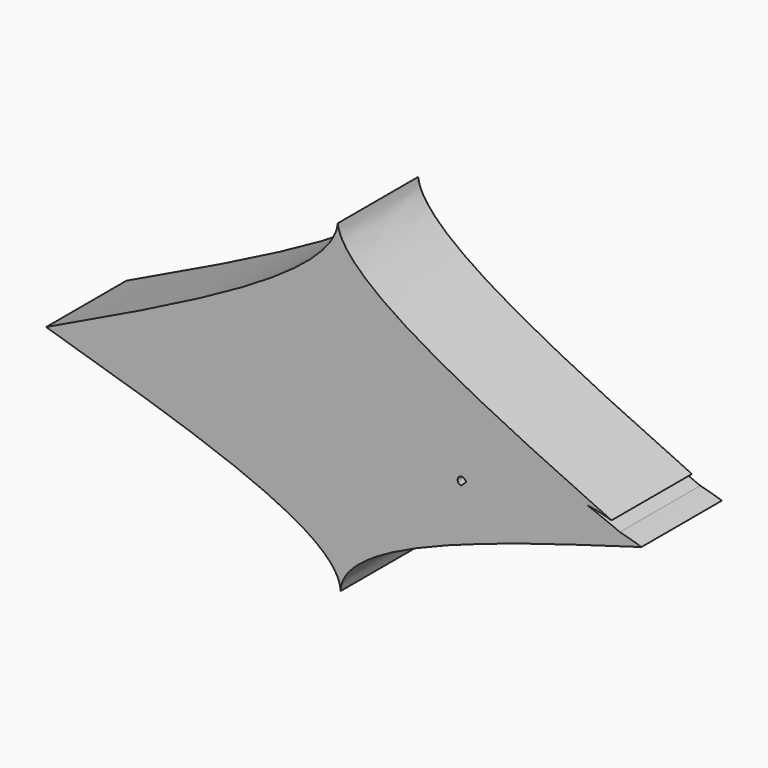
from build123d import *

# Parameters (mm, degrees)
F1_DEPTH = 25.4


with BuildPart() as f1:
    # F0 (on Front) → F1 (new body)
    with BuildSketch(Plane.XZ):
        with BuildLine():
            ThreePointArc((47.1242318861, -8.6663383223), (-0.8292120713, -13.7429262963), (-48.6883256295, -7.84294475))
            add(Edge.make_bspline(
                [(-5e-10, -34.5518551604), (-0.3103211855, -25.0342064399), (-21.9779874723, -16.341220269), (-48.6883256326, -7.8429447489)],
                knots=[0.5059463774, 0.5059463774, 0.5059463774, 0.5059463774, 0.8833492511, 0.8833492511, 0.8833492511, 0.8833492511], degree=3))
            add(Edge.make_bspline(
                [(6e-10, -34.5518551604), (0.3163893742, -25.3301562157), (21.0555086924, -16.8955462049), (47.1242318898, -8.6663383209)],
                knots=[0.5042568802, 0.5042568802, 0.5042568802, 0.5042568802, 0.870628733, 0.870628733, 0.870628733, 0.870628733], degree=3))
        make_face()
        with BuildLine():
            add(Edge.make_bspline(
                [(-72.7932450034, -0.4854286752), (-73.3352130542, -0.3236161555), (-73.8772961443, -0.1618080778), (-74.4193792343, 0)],
                knots=[0.9927629578, 0.9927629578, 0.9927629578, 0.9927629578, 1, 1, 1, 1], degree=3))
            ThreePointArc((-72.7932450034, -0.4854286752), (-70.5693455773, 0.1174871056), (-68.3298603069, 0.6596511212))
            ThreePointArc((-68.3298603069, 0.6596511212), (-3.4150879341, 15.5499984341), (62.321651727, 4.857422784))
            ThreePointArc((62.321651727, 4.857422784), (65.4358234144, 4.2978554673), (68.487980352, 3.4638777043))
            add(Edge.make_bspline(
                [(68.487980352, 3.4638777043), (33.5256195531, 19.4723942564), (0.6788517072, 35.2189922158), (-0.6972500757, 47.0693999578)],
                knots=[0.0332376272, 0.0332376272, 0.0332376272, 0.0332376272, 0.4944288863, 0.4944288863, 0.4944288863, 0.4944288863], degree=3))
            add(Edge.make_bspline(
                [(-74.4193792343, 0), (-38.2085076896, 17.1928259146), (-1.9976361449, 34.3856518292), (-0.6972500757, 47.0693999578)],
                knots=[0, 0, 0, 0, 0.4926559537, 0.4926559537, 0.4926559537, 0.4926559537], degree=3))
        make_face()
        with BuildLine():
            ThreePointArc((-68.3298603069, 0.6596511212), (-70.5693455773, 0.1174871056), (-72.7932450034, -0.4854286752))
            add(Edge.make_bspline(
                [(-48.6883256295, -7.84294475), (-56.4319791903, -5.379190787), (-64.5994647735, -2.9318020788), (-72.7932450034, -0.4854286752)],
                knots=[0.8833492511, 0.8833492511, 0.8833492511, 0.8833492511, 0.9927629578, 0.9927629578, 0.9927629578, 0.9927629578], degree=3))
            ThreePointArc((-48.6883256295, -7.84294475), (-0.8292120713, -13.7429262963), (47.1242318861, -8.6663383223))
            add(Edge.make_bspline(
                [(47.1242318861, -8.6663383223), (56.3294798486, -5.7604844935), (66.1992758688, -2.8802422468), (76.0690718889, 0)],
                knots=[0.870628733, 0.870628733, 0.870628733, 0.870628733, 1, 1, 1, 1], degree=3))
            ThreePointArc((76.0690718889, 0), (73.3478218066, 0.8250120938), (70.5978740002, 1.5486377067))
            ThreePointArc((70.5978740002, 1.5486377067), (50.8628377879, 3.7095200037), (31.2339033508, 0.7352975062))
            ThreePointArc((31.2339033508, 0.7352975062), (31.5518461592, 0.4192239579), (31.7107215524, 0))
            ThreePointArc((31.7107215524, 0), (31.0752439747, -0.6022570997), (30.4276291281, -1.191443298))
            ThreePointArc((30.4276291281, -1.191443298), (0.9575087047, -12.0764891335), (-28.0447434634, 0))
            ThreePointArc((-28.0447434634, 0), (-48.1474838904, 2.7615239524), (-68.3298603069, 0.6596511212))
        make_face()
        with BuildLine():
            ThreePointArc((62.321651727, 4.857422784), (-3.4150879341, 15.5499984341), (-68.3298603069, 0.6596511212))
            ThreePointArc((-68.3298603069, 0.6596511212), (-48.1474838904, 2.7615239524), (-28.0447434634, 0))
            ThreePointArc((-28.0447434634, 0), (0.9575087047, -12.0764891335), (30.4276291281, -1.191443298))
            ThreePointArc((30.4276291281, -1.191443298), (29.714106445, -0.631709807), (29.6944342554, 0.2749484556))
            ThreePointArc((29.6944342554, 0.2749484556), (30.3586101349, 0.8581253542), (31.2339033508, 0.7352975062))
            ThreePointArc((31.2339033508, 0.7352975062), (50.8628377879, 3.7095200037), (70.5978740002, 1.5486377067))
            ThreePointArc((70.5978740002, 1.5486377067), (66.4810392387, 3.2562485734), (62.321651727, 4.857422784))
        make_face()
    extrude(amount=F1_DEPTH)


solid = f1.part
